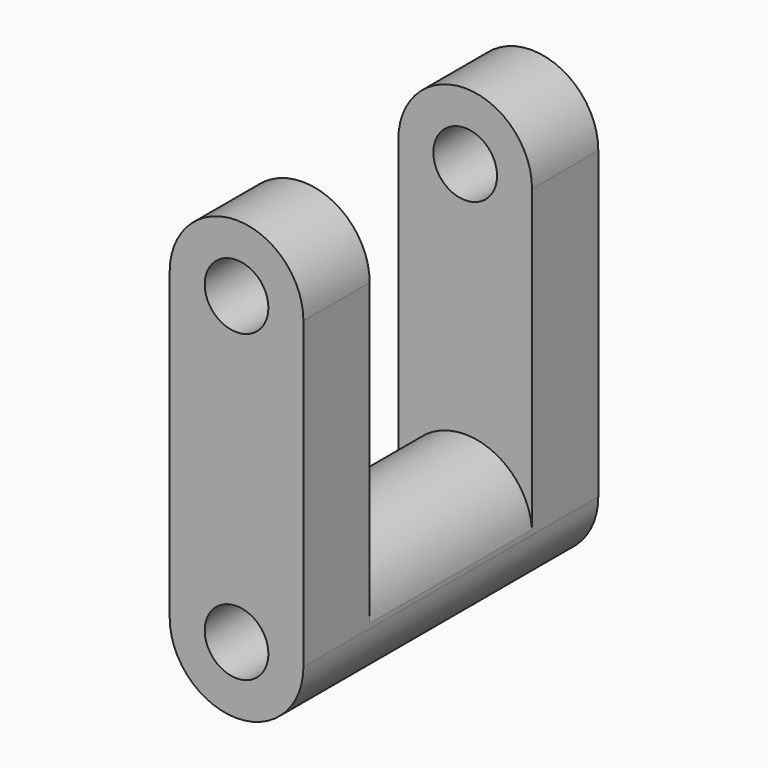
from build123d import *

# Parameters (mm, degrees)
F0_R     = 12.5913300432
F1_DEPTH = 72.898
F3_DEPTH = 40.132


with BuildPart() as f1:
    # F0 (on Front) → F1 (new body, symmetric)
    with BuildSketch(Plane.XZ):
        with BuildLine():
            Line((26.4380890876, -60.2510087192), (26.4380890876, 60.2510087192))
            ThreePointArc((26.4380890876, 60.2510087192), (0, 86.6890978068), (-26.4380890876, 60.2510087192))
            Line((-26.4380890876, 60.2510087192), (-26.4380890876, -60.2510087192))
            ThreePointArc((-26.4380890876, -60.2510087192), (0, -86.6890978068), (26.4380890876, -60.2510087192))
        make_face()
        with Locations((0, -60.2510087192)):
            Circle(F0_R, mode=Mode.SUBTRACT)
        with Locations((0, 60.2510087192)):
            Circle(F0_R, mode=Mode.SUBTRACT)
    extrude(amount=F1_DEPTH, both=True)

    # F2 (on Front) → F3 (cut, symmetric)
    with BuildSketch(Plane.XZ):
        with BuildLine():
            ThreePointArc((-26.508660987, 60.3224746883), (0, 33.8138137013), (26.508660987, 60.3224746883))
            Line((26.508660987, 60.3224746883), (-26.508660987, 60.3224746883))
        make_face()
        with BuildLine():
            Line((-26.508660987, 60.3224746883), (26.508660987, 60.3224746883))
            ThreePointArc((26.508660987, 60.3224746883), (0, 86.8311356753), (-26.508660987, 60.3224746883))
        make_face()
        with BuildLine():
            Line((26.508660987, -60.3224746883), (26.508660987, 60.3224746883))
            ThreePointArc((26.508660987, 60.3224746883), (0, 33.8138137013), (-26.508660987, 60.3224746883))
            Line((-26.508660987, 60.3224746883), (-26.508660987, -60.3224746883))
            ThreePointArc((-26.508660987, -60.3224746883), (0, -33.8138137013), (26.508660987, -60.3224746883))
        make_face()
    extrude(amount=F3_DEPTH, both=True, mode=Mode.SUBTRACT)


solid = f1.part
